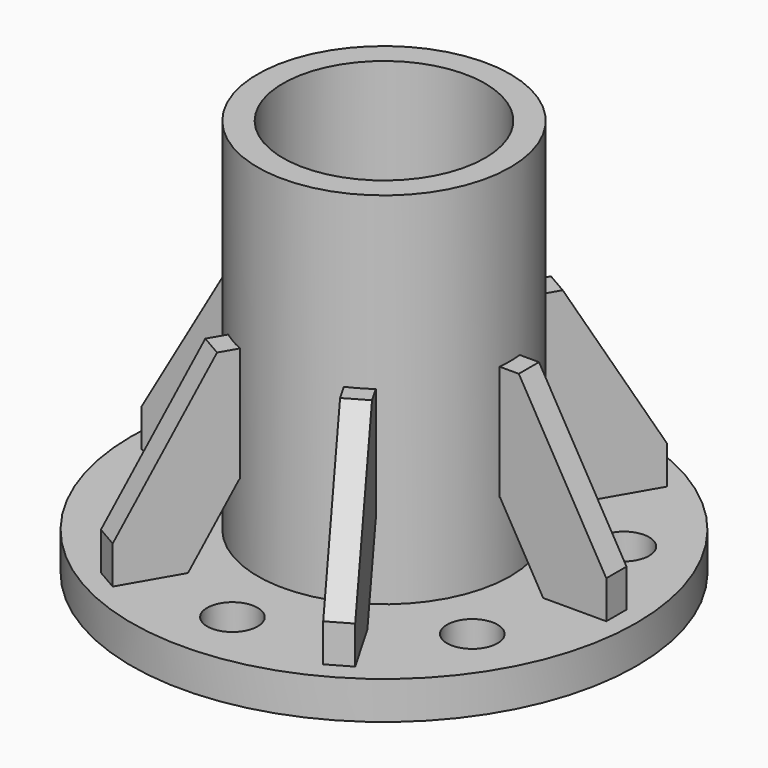
from build123d import *

# Parameters (mm, degrees)
F0_R     = 50
F0_R_2   = 40
F1_DEPTH = 157.5
F0_R_3   = 100
F0_R_4   = 10
F2_DEPTH = 15
F3_W     = 2.6
F3_H     = 45.5551362713
F4_DEPTH = 5
F6_COUNT = 6
F7_DEPTH = 7.5
F8_DEPTH = 7.5
F9_DEPTH = 7.5


with BuildPart() as f1:
    # F0 (on Top) → F1 (new body)
    with BuildSketch(Plane.XY):
        Circle(F0_R)
        Circle(F0_R_2, mode=Mode.SUBTRACT)
    extrude(amount=F1_DEPTH)


with BuildPart() as f2:
    # F0 (on Top) → F2 (new body)
    with BuildSketch(Plane.XY):
        Circle(F0_R_3)
        with Locations((-64.9519052838, -37.5)):
            Circle(F0_R_4, mode=Mode.SUBTRACT)
        with Locations((0, -75)):
            Circle(F0_R_4, mode=Mode.SUBTRACT)
        with Locations((64.9519052838, -37.5)):
            Circle(F0_R_4, mode=Mode.SUBTRACT)
        with Locations((-64.9519052838, 37.5)):
            Circle(F0_R_4, mode=Mode.SUBTRACT)
        Circle(F0_R, mode=Mode.SUBTRACT)
        with Locations((64.9519052838, 37.5)):
            Circle(F0_R_4, mode=Mode.SUBTRACT)
        with Locations((0, 75)):
            Circle(F0_R_4, mode=Mode.SUBTRACT)
    extrude(amount=F2_DEPTH)


with BuildPart() as f4:
    # F3 (on Front) → F4 (new body, symmetric)
    with BuildSketch(Plane.XZ):
        with Locations((48.7, 67.2224318643)):
            Rectangle(F3_W, F3_H)
        Polygon((57.3589838486, 90), (50, 90), (50, 44.4448637287), (67, 15), (92, 15), (92, 30), align=None)
    extrude(amount=F4_DEPTH, both=True)

    # F5: cut F1
    add(f1.part, mode=Mode.SUBTRACT)


with BuildPart() as f6_1:
    # F6: instance of F4
    add(f4.part.rotate(Axis((0, 0, 98.2579829636), (0, 0, 1)), 1 * 360 / F6_COUNT))


with BuildPart() as f6_2:
    # F6: instance of F4
    add(f4.part.rotate(Axis((0, 0, 98.2579829636), (0, 0, 1)), 2 * 360 / F6_COUNT))


with BuildPart() as f6_3:
    # F6: instance of F4
    add(f4.part.rotate(Axis((0, 0, 98.2579829636), (0, 0, 1)), 3 * 360 / F6_COUNT))


with BuildPart() as f6_4:
    # F6: instance of F4
    add(f4.part.rotate(Axis((0, 0, 98.2579829636), (0, 0, 1)), 4 * 360 / F6_COUNT))


with BuildPart() as f6_5:
    # F6: instance of F4
    add(f4.part.rotate(Axis((0, 0, 98.2579829636), (0, 0, 1)), 5 * 360 / F6_COUNT))


with BuildPart() as f1_1:
    add(f1.part)

    # F0 (on Top) → F7 (join)
    with BuildSketch(Plane.XY):
        Circle(F0_R_2)
    extrude(amount=F7_DEPTH)

    # F0 (on Top) → F8 (cut)
    with BuildSketch(Plane.XY):
        Circle(F0_R_2)
    extrude(amount=F8_DEPTH, mode=Mode.SUBTRACT)

    # F0 (on Top) → F9 (cut)
    with BuildSketch(Plane.XY):
        Circle(F0_R)
        Circle(F0_R_2, mode=Mode.SUBTRACT)
    extrude(amount=F9_DEPTH, mode=Mode.SUBTRACT)


solid = Compound([f2.part, f4.part, f6_1.part, f6_2.part, f6_3.part, f6_4.part, f6_5.part, f1_1.part])
